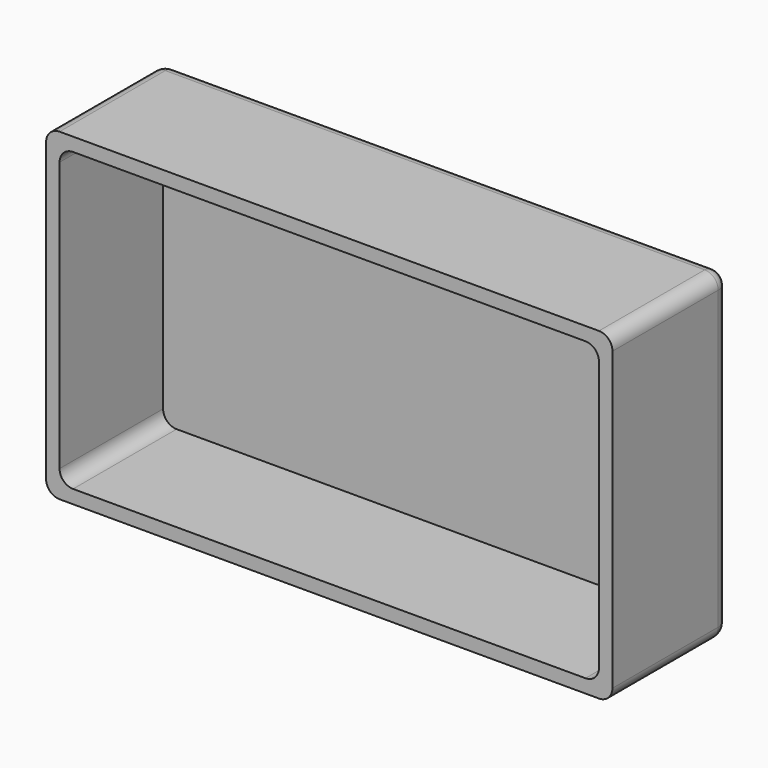
from build123d import *

# Parameters (mm, degrees)
F0_W        = 105
F0_H        = 60
F0_W_2      = 100
F0_H_2      = 55
F2_DEPTH    = 24
F2_FACE_W   = 105
F2_FACE_H   = 60
F2_FACE_W_2 = 100
F2_FACE_H_2 = 55
F1_R        = 3
F1_R_2      = 1.25
F3_DEPTH    = 3
F4_R        = 2.5


with BuildPart() as f2:
    # F0 (on Front) → F2 (new body)
    with BuildSketch(Plane.XZ):
        Rectangle(F0_W, F0_H)
        Rectangle(F0_W_2, F0_H_2, mode=Mode.SUBTRACT)
    extrude(amount=F2_DEPTH)

    # F0 (on Front) + F2_face (on face) + F1 (on Front) → F3 (join)
    with BuildSketch(Plane.XZ):
        Rectangle(F0_W_2, F0_H_2)
    with BuildSketch(Plane.XZ.offset(24)):
        Rectangle(F2_FACE_W, F2_FACE_H)
        Rectangle(F2_FACE_W_2, F2_FACE_H_2, mode=Mode.SUBTRACT)
    with BuildSketch(Plane.XZ):
        with Locations((-42.9925474213, -21.9911143348)):
            Circle(F1_R)
        with Locations((-42.9925474213, -21.9911143348)):
            Circle(F1_R_2, mode=Mode.SUBTRACT)
        with Locations((-42.9925474213, 22.0088856652)):
            Circle(F1_R)
        with Locations((-42.9925474213, 22.0088856652)):
            Circle(F1_R_2, mode=Mode.SUBTRACT)
        with Locations((43.0074525787, 22.0088856652)):
            Circle(F1_R)
        with Locations((43.0074525787, 22.0088856652)):
            Circle(F1_R_2, mode=Mode.SUBTRACT)
        with Locations((43.0074525787, -21.9911143348)):
            Circle(F1_R)
        with Locations((43.0074525787, -21.9911143348)):
            Circle(F1_R_2, mode=Mode.SUBTRACT)
    extrude(amount=F3_DEPTH)

    # F4
    f4_edges = [f2.edges().sort_by_distance(p)[0] for p in [
        (-52.5, -13.5, -30),
        (52.5, -13.5, -30),
        (52.5, -13.5, 30),
        (-52.5, -13.5, 30),
        (0, 0, 30),
        (-52.5, 0, 0),
        (0, 0, -30),
        (52.5, 0, 0),
        (50, -15, -27.5),
        (-50, -15, -27.5),
        (50, -15, 27.5),
        (-50, -15, 27.5),
    ]]
    fillet(f4_edges, radius=F4_R)


solid = f2.part
